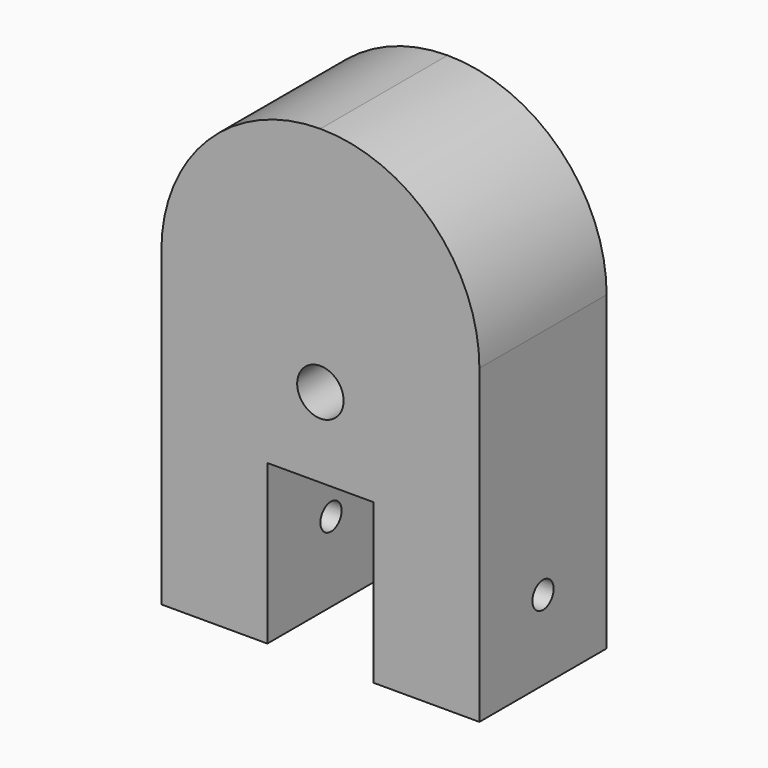
from build123d import *

# Parameters (mm, degrees)
F0_R     = 11.1125
F1_DEPTH = 76.2
F3_R     = 6.35
F4_DEPTH = 254


with BuildPart() as f1:
    # F0 (on Front) → F1 (new body)
    with BuildSketch(Plane.XZ):
        with BuildLine():
            Line((-99.1606424355, 106.8110580641), (-99.1606424355, -42.4139419359))
            Line((-99.1606424355, -42.4139419359), (-48.3606424355, -42.4139419359))
            Line((-48.3606424355, -42.4139419359), (-48.3606424355, 33.7860580641))
            Line((-48.3606424355, 33.7860580641), (2.4393575645, 33.7860580641))
            Line((2.4393575645, 33.7860580641), (2.4393575645, -42.4139419359))
            Line((2.4393575645, -42.4139419359), (53.2393575645, -42.4139419359))
            Line((53.2393575645, -42.4139419359), (53.2393575645, 106.8110580641))
            ThreePointArc((53.2393575645, 106.8110580641), (30.9208942909, 160.6925947905), (-22.9606424355, 183.0110580641))
            ThreePointArc((-22.9606424355, 183.0110580641), (-76.8421791619, 160.6925947905), (-99.1606424355, 106.8110580641))
        make_face()
        with Locations((-22.9606424355, 71.8860580641)):
            Circle(F0_R, mode=Mode.SUBTRACT)
    extrude(amount=F1_DEPTH)

    # F3 (on offset) → F4 (cut)
    with BuildSketch(Plane(origin=(-99.1606424355, 0, 0), x_dir=(0, -1, 0), z_dir=(-1, 0, 0))):
        with Locations((38.1, -4.3139419359)):
            Circle(F3_R)
    extrude(amount=-F4_DEPTH, mode=Mode.SUBTRACT)


solid = f1.part
